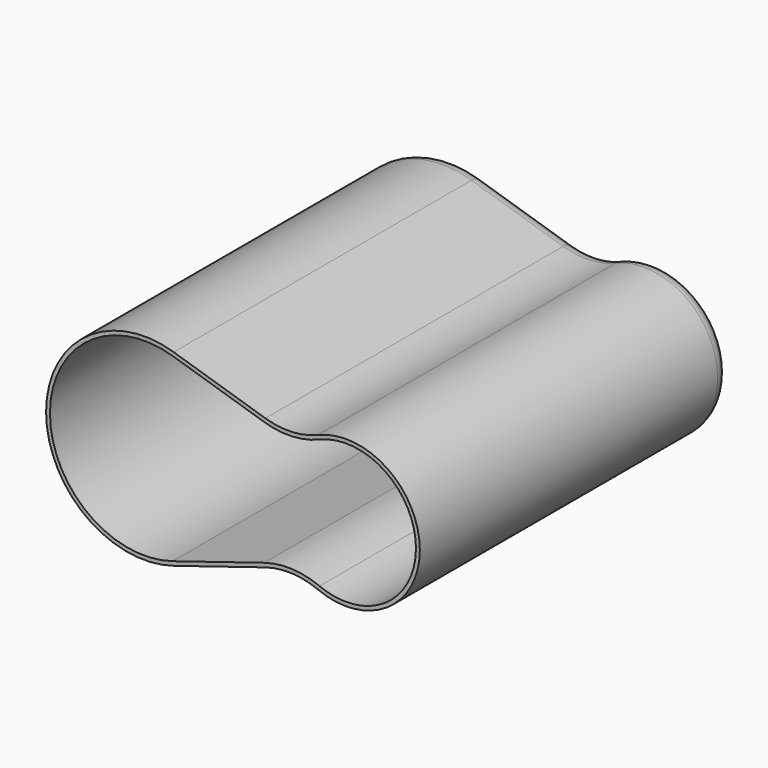
from build123d import *

# Parameters (mm, degrees)
F1_DEPTH = 125
F2_R     = 50
F3_R     = 10
F4_T     = -2.5


with BuildPart() as f1:
    # F0 (on Front) → F1 (new body, symmetric)
    with BuildSketch(Plane.XZ):
        with BuildLine():
            Line((98.826939, 35.839786), (18.805769, 60.651406))
            ThreePointArc((18.805769, 60.651406), (-63.5, 0), (18.805769, -60.651406))
            Line((18.805769, -60.651406), (98.826939, -35.839786))
            ThreePointArc((98.826939, -35.839786), (177.5, 0), (98.826939, 35.839786))
        make_face()
    extrude(amount=F1_DEPTH, both=True)

    # F2
    f2_edges = [f1.edges().sort_by_distance(p)[0] for p in [
        (98.826939, 0, 35.839786),
        (98.826939, 0, -35.839786),
    ]]
    fillet(f2_edges, radius=F2_R)

    # F3
    f3_edges = [f1.edges().sort_by_distance(p)[0] for p in [
        (48.352342, 125, -51.490101),
    ]]
    fillet(f3_edges, radius=F3_R)

    # F4
    f4_openings = [f1.faces().sort_by_distance(p)[0] for p in [
        (49.834111, -125, 0),
    ]]
    offset(amount=F4_T, openings=f4_openings)


solid = f1.part
